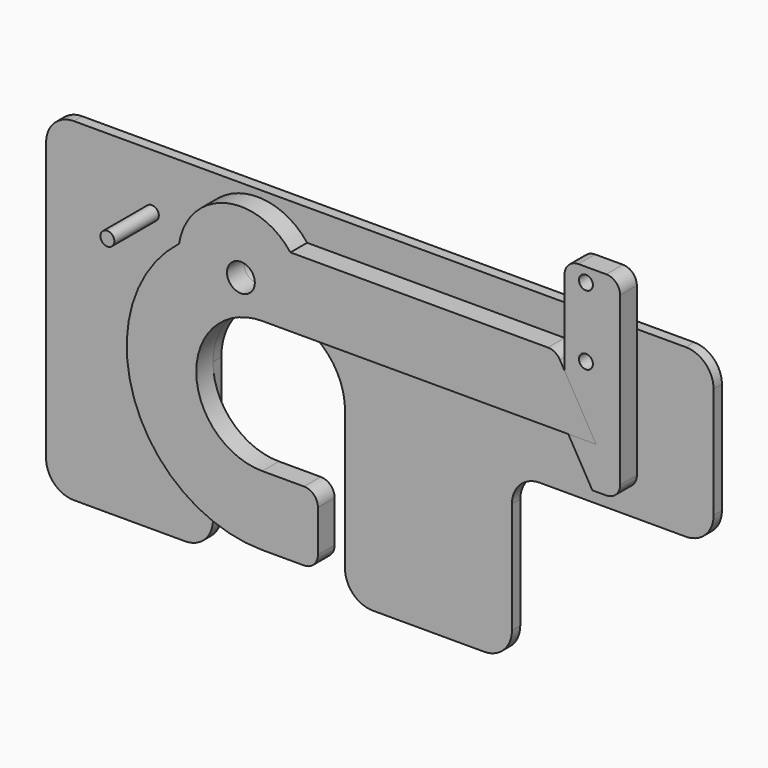
from build123d import *

# Parameters (mm, degrees)
F0_R     = 6.35
F2_DEPTH = 9.525
F1_R     = 3.175
F3_R     = 3.175
F4_DEPTH = 25.4
F5_R     = 3.175
F5_R_2   = 6.35
F6_DEPTH = 4.7625


with BuildPart() as f2:
    # F0 (on Front) → F2 (new body)
    with BuildSketch(Plane.XZ):
        with BuildLine():
            ThreePointArc((0, -30.1625), (-30.1625, 0), (0, 30.1625))
            Line((0, 30.1625), (152.4, 30.1625))
            Line((152.4, 30.1625), (135.9022160579, 58.7375))
            ThreePointArc((135.9022160579, 58.7375), (133.5779547439, 61.061761314), (130.4029547439, 61.9125))
            Line((130.4029547439, 61.9125), (12.8393933724, 61.9125))
            ThreePointArc((12.8393933724, 61.9125), (-16.8778047521, 72.129190669), (-38.0098779856, 48.8713293432))
            ThreePointArc((-38.0098779856, 48.8713293432), (-58.5615224965, -20.0924298965), (0, -61.9125))
            Line((0, -61.9125), (19.05, -61.9125))
            ThreePointArc((19.05, -61.9125), (23.5401280605, -60.0526280605), (25.4, -55.5625))
            Line((25.4, -55.5625), (25.4, -36.5125))
            ThreePointArc((25.4, -36.5125), (23.5401280605, -32.0223719395), (19.05, -30.1625))
            Line((19.05, -30.1625), (0, -30.1625))
        make_face()
        with Locations((-9.779, 44.45)):
            Circle(F0_R, mode=Mode.SUBTRACT)
    extrude(amount=F2_DEPTH)


with BuildPart() as f2b:
    # F1 (on Front) → F2, piece 2 (new body)
    with BuildSketch(Plane.XZ):
        with BuildLine():
            Line((137.9985226281, 55.1065905122), (152.4, 30.1625))
            Line((152.4, 30.1625), (139.7, 30.1625))
            Line((139.7, 30.1625), (150.6985226281, 11.1125))
            Line((150.6985226281, 11.1125), (157.0485226281, 11.1125))
            ThreePointArc((157.0485226281, 11.1125), (161.5386506886, 12.9723719395), (163.3985226281, 17.4625))
            Line((163.3985226281, 17.4625), (163.3985226281, 93.6625))
            ThreePointArc((163.3985226281, 93.6625), (161.5386506886, 98.1526280605), (157.0485226281, 100.0125))
            Line((157.0485226281, 100.0125), (144.3485226281, 100.0125))
            ThreePointArc((144.3485226281, 100.0125), (139.8583945675, 98.1526280605), (137.9985226281, 93.6625))
            Line((137.9985226281, 93.6625), (137.9985226281, 55.1065905122))
        make_face()
        with Locations((147.7775226281, 61.9125)):
            Circle(F1_R, mode=Mode.SUBTRACT)
        with Locations((147.7775226281, 93.6625)):
            Circle(F1_R, mode=Mode.SUBTRACT)
    extrude(amount=F2_DEPTH)


with BuildPart() as f4:
    # F3 (on Front) → F4 (new body)
    with BuildSketch(Plane.XZ):
        with Locations((-58.0568350852, 50.8330799639)):
            Circle(F3_R)
    extrude(amount=F4_DEPTH)


with BuildPart() as f6:
    # F5 (on face) → F6 (new body)
    with BuildSketch(Plane.XZ):
        with BuildLine():
            ThreePointArc((0, 30.1625), (21.3281082875, 21.3281082875), (30.1625, 0))
            Line((30.1625, 0), (30.1625, -63.5))
            ThreePointArc((30.1625, -63.5), (33.8822438789, -72.4802561211), (42.8625, -76.2))
            Line((42.8625, -76.2), (93.6625, -76.2))
            ThreePointArc((93.6625, -76.2), (102.6427561211, -72.4802561211), (106.3625, -63.5))
            Line((106.3625, -63.5), (106.3625, -12.7))
            ThreePointArc((106.3625, -12.7), (110.0822438789, -3.7197438789), (119.0625, 0))
            Line((119.0625, 0), (185.7375, 0))
            ThreePointArc((185.7375, 0), (194.7177561211, 3.7197438789), (198.4375, 12.7))
            Line((198.4375, 12.7), (198.4375, 63.5))
            ThreePointArc((198.4375, 63.5), (194.7177561211, 72.4802561211), (185.7375, 76.2))
            Line((185.7375, 76.2), (-93.6625, 76.2))
            ThreePointArc((-93.6625, 76.2), (-102.6427561211, 72.4802561211), (-106.3625, 63.5))
            Line((-106.3625, 63.5), (-106.3625, -63.5))
            ThreePointArc((-106.3625, -63.5), (-102.6427561211, -72.4802561211), (-93.6625, -76.2))
            Line((-93.6625, -76.2), (-42.8625, -76.2))
            ThreePointArc((-42.8625, -76.2), (-33.8822438789, -72.4802561211), (-30.1625, -63.5))
            Line((-30.1625, -63.5), (-30.1625, -54.0683017118))
            ThreePointArc((-30.1625, -54.0683017118), (-61.7333798725, -4.7061094083), (-38.0098779856, 48.8713293432))
            ThreePointArc((-38.0098779856, 48.8713293432), (-16.8778047521, 72.129190669), (12.8393933724, 61.9125))
            Line((12.8393933724, 61.9125), (130.4029547439, 61.9125))
            ThreePointArc((130.4029547439, 61.9125), (133.5779547439, 61.061761314), (135.9022160579, 58.7375))
            Line((135.9022160579, 58.7375), (152.4, 30.1625))
            Line((152.4, 30.1625), (0, 30.1625))
        make_face()
        with Locations((147.7775226281, 61.9125)):
            Circle(F5_R, mode=Mode.SUBTRACT)
        with BuildLine():
            ThreePointArc((-30.1625, 0), (-21.3281082875, 21.3281082875), (0, 30.1625))
            Line((0, 30.1625), (152.4, 30.1625))
            Line((152.4, 30.1625), (135.9022160579, 58.7375))
            ThreePointArc((135.9022160579, 58.7375), (133.5779547439, 61.061761314), (130.4029547439, 61.9125))
            Line((130.4029547439, 61.9125), (12.8393933724, 61.9125))
            ThreePointArc((12.8393933724, 61.9125), (-16.8778047521, 72.129190669), (-38.0098779856, 48.8713293432))
            ThreePointArc((-38.0098779856, 48.8713293432), (-61.7333798725, -4.7061094083), (-30.1625, -54.0683017118))
            Line((-30.1625, -54.0683017118), (-30.1625, 0))
        make_face()
        with Locations((-9.779, 44.45)):
            Circle(F5_R_2, mode=Mode.SUBTRACT)
    extrude(amount=-F6_DEPTH)


solid = Compound([f2.part, f2b.part, f4.part, f6.part])
